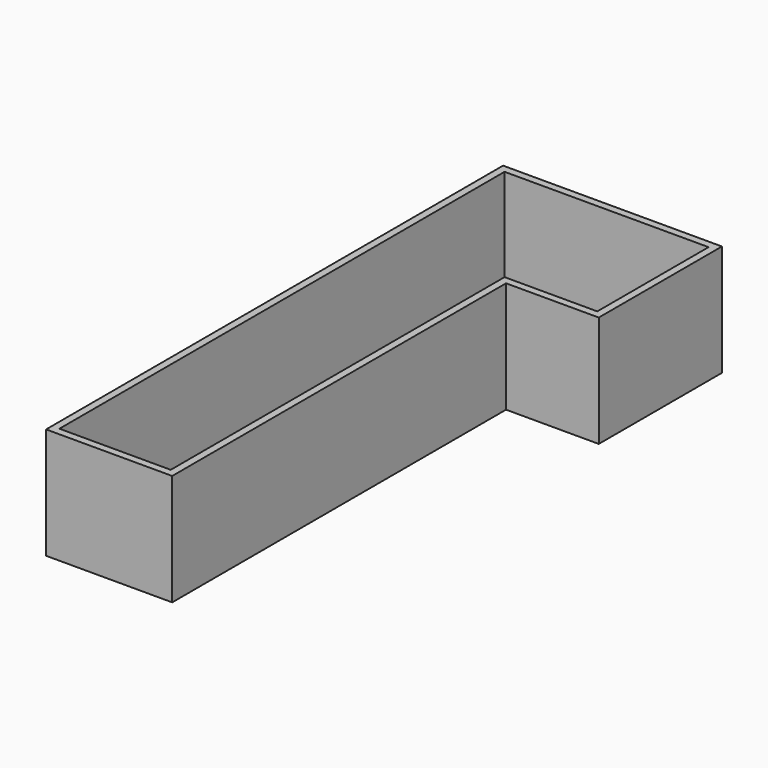
from build123d import *

# Parameters (mm, degrees)
F1_DEPTH = 12
F2_DEPTH = 1


with BuildPart() as f1:
    # F0 (on Top) → F1 (new body)
    with BuildSketch(Plane.XY):
        Polygon((-6.8, -30.8), (6.8, -30.8), (6.8, 14.2), (16.8, 14.2), (16.8, 30.8), (6.8, 30.8), (-6.8, 30.8), align=None)
        Polygon((6, -30), (-6, -30), (-6, 30), (6, 30), (16, 30), (16, 15), (6, 15), align=None, mode=Mode.SUBTRACT)
    extrude(amount=F1_DEPTH)

    # F0 (on Top) → F2 (join)
    with BuildSketch(Plane.XY):
        Polygon((-6, 30), (-6, -30), (6, -30), (6, 15), (16, 15), (16, 30), (6, 30), align=None)
    extrude(amount=F2_DEPTH)


solid = f1.part
